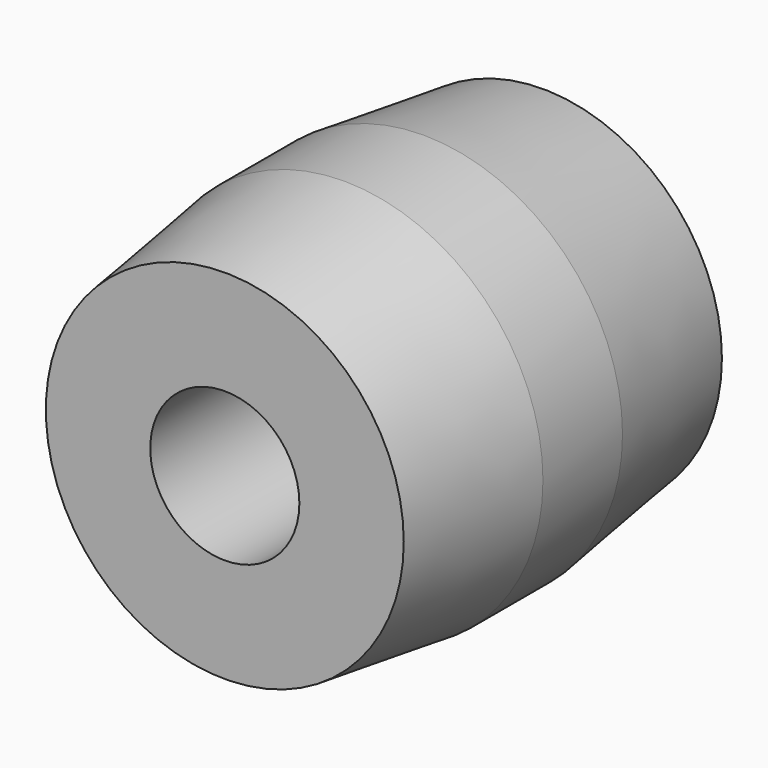
from build123d import *

# Parameters (mm, degrees)
F0_R     = 25.4
F0_R_2   = 9.525
F1_DEPTH = 50.8
F2_SIZE2 = 2.54
F2_SIZE  = 19.05


with BuildPart() as f1:
    # F0 (on Front) → F1 (new body)
    with BuildSketch(Plane.XZ):
        Circle(F0_R)
        Circle(F0_R_2, mode=Mode.SUBTRACT)
    extrude(amount=F1_DEPTH)

    # F2
    f2_edges = [f1.edges().sort_by_distance(p)[0] for p in [
        (25.4, -25.4, 0),
        (-25.4, 0, 0),
        (-25.4, -50.8, 0),
    ]]
    chamfer(f2_edges, length=F2_SIZE, length2=F2_SIZE2)


solid = f1.part
